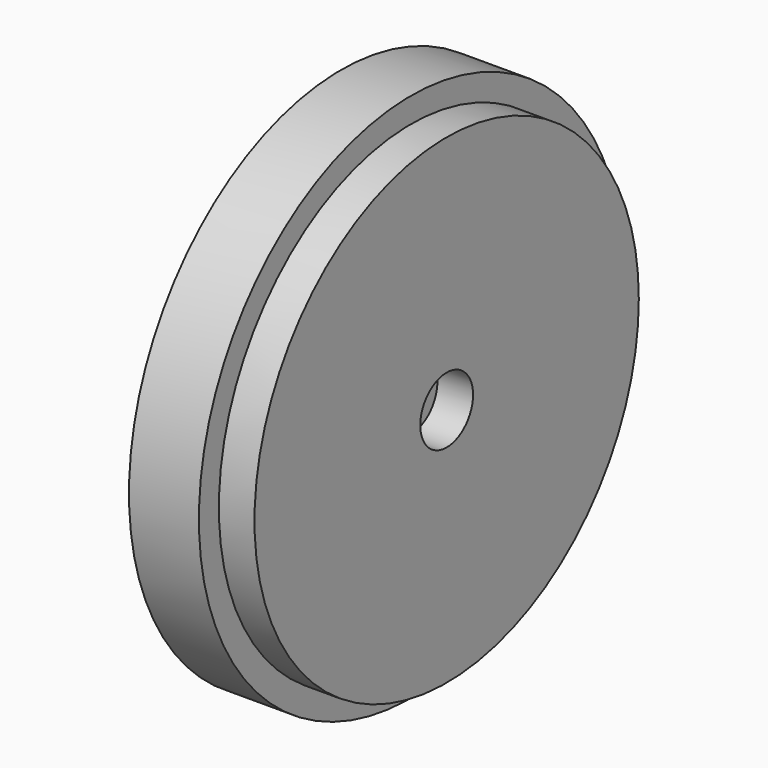
from build123d import *

# Parameters (mm, degrees)
F1_W = 0.3
F1_H = 2.5


with BuildPart() as f3:
    # F0 (on Top) → F3 (revolve)
    with BuildSketch(Plane.XY):
        Polygon((0, 13.201755), (0, 5), (5, 5), (5, 2.5), (8, 2.5), (8, 18.201755), (5, 18.201755), (5, 13.201755), align=None)
    revolve(axis=Axis((9.429826, 0, 0), (1, 0, 0)))

    # F1 (on Top) → F4 (revolve)
    with BuildSketch(Plane.XY):
        with Locations((5.15, 1.25)):
            Rectangle(F1_W, F1_H)
        Polygon((5, 19.791724), (5, 18.201755), (5.3, 18.201755), (5.3, 20.091724), (0, 20.091724), (0, 19.791724), align=None)
    revolve(axis=Axis((9.429826, 0, 0), (1, 0, 0)))


solid = f3.part
